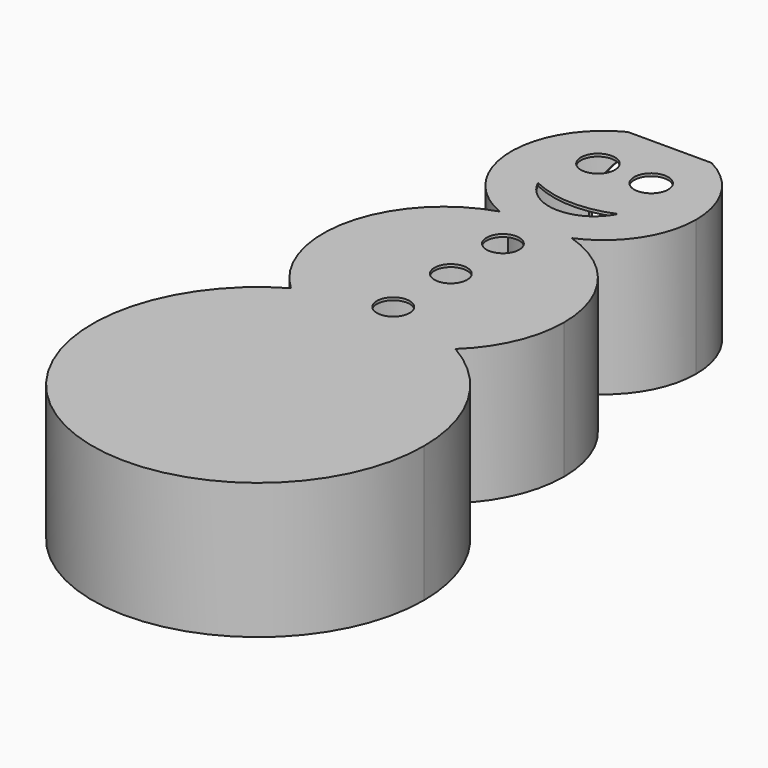
from build123d import *

# Parameters (mm, degrees)
F1_DEPTH  = 25.4
F2_W      = 24.5687300339
F2_H      = 2.9094554484
F3_DEPTH  = 25.4
F4_T      = -0.5
F5_R      = 3.0570054972
F5_R_2    = 3.0607
F6_R      = 3.181794186
F8_DEPTH  = 25.4
F9_R      = 12.1043942534
F10_DEPTH = 25.4


with BuildPart() as f1:
    # F0 (on Top) → F1 (new body)
    with BuildSketch(Plane.XY):
        with BuildLine():
            ThreePointArc((6.7371355302, 21.506121056), (14.414150376, 27.8790390368), (17.2925723513, 37.4323278666))
            ThreePointArc((17.2925723513, 37.4323278666), (-9.5532888298, 51.8464782426), (-6.7371355302, 21.506121056))
            ThreePointArc((-6.7371355302, 21.506121056), (0, 22.5366864917), (6.7371355302, 21.506121056))
        make_face()
        with BuildLine():
            ThreePointArc((15.3873619303, -16.4660660406), (0, -22.5366864917), (-15.3873619303, -16.4660660406))
            ThreePointArc((-15.3873619303, -16.4660660406), (-15.5425277668, -70.157586494), (30.9817265156, -43.3565191925))
            ThreePointArc((30.9817265156, -43.3565191925), (26.8010673015, -27.8139914256), (15.3873619303, -16.4660660406))
        make_face()
        with BuildLine():
            ThreePointArc((6.7371355302, 21.506121056), (0, 22.5366864917), (-6.7371355302, 21.506121056))
            ThreePointArc((-6.7371355302, 21.506121056), (0, 20.1397555152), (6.7371355302, 21.506121056))
        make_face()
        with BuildLine():
            ThreePointArc((6.7371355302, 21.506121056), (0, 20.1397555152), (-6.7371355302, 21.506121056))
            ThreePointArc((-6.7371355302, 21.506121056), (-21.9737364868, 5.0057110217), (-15.3873619303, -16.4660660406))
            ThreePointArc((-15.3873619303, -16.4660660406), (0, -12.3747926769), (15.3873619303, -16.4660660406))
            ThreePointArc((15.3873619303, -16.4660660406), (20.6722324603, -8.9755803787), (22.5366864917, 0))
            ThreePointArc((22.5366864917, 0), (18.1622541184, 13.3429668127), (6.7371355302, 21.506121056))
        make_face()
        with BuildLine():
            ThreePointArc((15.3873619303, -16.4660660406), (0, -12.3747926769), (-15.3873619303, -16.4660660406))
            ThreePointArc((-15.3873619303, -16.4660660406), (0, -22.5366864917), (15.3873619303, -16.4660660406))
        make_face()
    extrude(amount=F1_DEPTH)

    # F2 (on Top) → F3 (cut)
    with BuildSketch(Plane.XY):
        with Locations((4.657e-07, 54.3079804629)):
            Rectangle(F2_W, F2_H)
    extrude(amount=F3_DEPTH, mode=Mode.SUBTRACT)

    # F4 (hollow: no face is removed)
    offset(amount=F4_T, kind=Kind.INTERSECTION, mode=Mode.SUBTRACT)

    # F5 (on face) + F6 (on face) + F7 (on face) → F8 (cut)
    with BuildSketch(Plane.XY.offset(25.4)):
        with Locations((0, 13.8647966087)):
            Circle(F5_R)
        with Locations((0, 1.6805409687)):
            Circle(F5_R_2)
        with Locations((0, -11.7677608505)):
            Circle(F5_R_2)
    with BuildSketch(Plane.XY.offset(25.4)):
        with Locations((-4.9822856672, 42.3047989607)):
            Circle(F6_R)
        with Locations((4.9822856672, 42.3047989607)):
            Circle(F6_R)
    with BuildSketch(Plane.XY.offset(25.4)):
        with BuildLine():
            ThreePointArc((7.2696800344, 31.6944643855), (-0.4129284645, 30.2212155736), (-8.011739701, 32.0789031684))
            ThreePointArc((-8.011739701, 32.0789031684), (-0.4918764169, 27.0830389619), (7.2696800344, 31.6944643855))
        make_face()
    extrude(amount=-F8_DEPTH, mode=Mode.SUBTRACT)

    # F9 (on face) → F10 (cut)
    with BuildSketch(Plane(origin=(0, 52.8532527387, 0), x_dir=(-1, 0, 0), z_dir=(0, 1, 0))):
        with Locations((0, 12.44416181)):
            Circle(F9_R)
    extrude(amount=-F10_DEPTH, mode=Mode.SUBTRACT)


solid = f1.part
